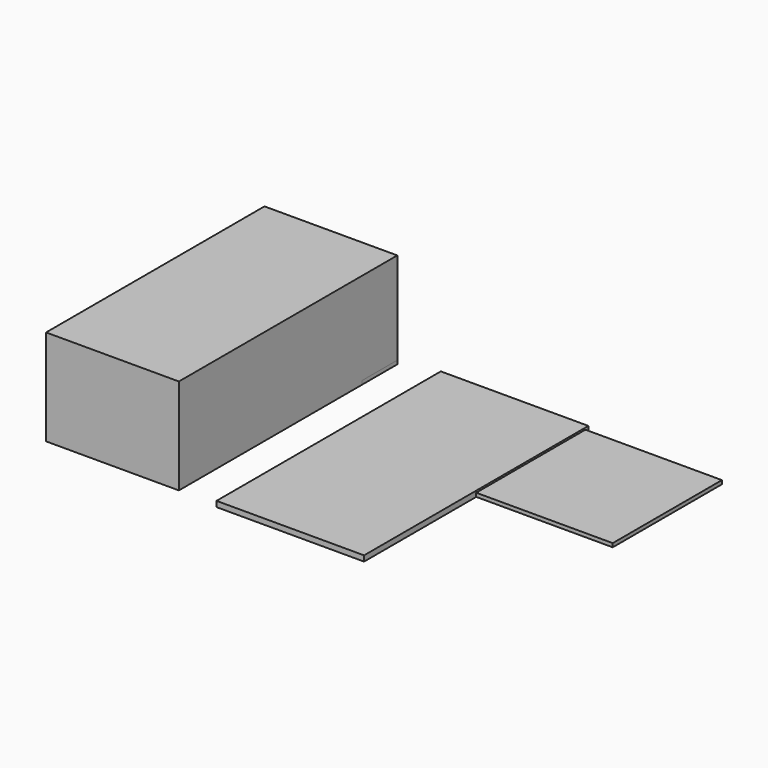
from build123d import *

# Parameters (mm, degrees)
F0_W     = 457.2
F0_H     = 939.8
F3_DEPTH = 330.2
F0_W_2   = 482.6
F4_DEPTH = 19.05
F1_W     = 660.4
F1_H     = 469.9
F1_W_2   = 76.2
F1_H_2   = 317.5
F1_H_3   = 279.4
F5_DEPTH = 12.7
F2_W     = 457.2
F2_H     = 152.4
F2_H_2   = 457.2
F6_DEPTH = 12.7


with BuildPart() as f3:
    # F0 (on Top) → F3 (new body)
    with BuildSketch(Plane.XY):
        with Locations((-381, -469.9)):
            Rectangle(F0_W, F0_H)
    extrude(amount=F3_DEPTH)


with BuildPart() as f4:
    # F0 (on Top) → F4 (new body)
    with BuildSketch(Plane.XY):
        Polygon((495.3, 12.7), (482.6, 0), (482.6, -939.8), (495.3, -952.5), align=None)
        Polygon((-12.7, 12.7), (0, 0), (482.6, 0), (495.3, 12.7), align=None)
        with Locations((241.3, -469.9)):
            Rectangle(F0_W_2, F0_H)
        Polygon((0, -939.8), (0, 0), (-12.7, 12.7), (-12.7, -952.5), align=None)
        Polygon((482.6, -939.8), (0, -939.8), (-12.7, -952.5), (495.3, -952.5), align=None)
    extrude(amount=F4_DEPTH)


with BuildPart() as f5:
    # F1 (on Top) → F5 (new body)
    with BuildSketch(Plane.XY):
        with Locations((635, -234.95)):
            Rectangle(F1_W, F1_H)
        with Locations((190.5, -158.75)):
            Rectangle(F1_W_2, F1_H_2)
        with Locations((38.1, -139.7)):
            Rectangle(F1_W_2, F1_H_3)
    extrude(amount=F5_DEPTH)


with BuildPart() as f6:
    # F2 (on Top) → F6 (new body)
    with BuildSketch(Plane.XY):
        with Locations((-381, -76.2)):
            Rectangle(F2_W, F2_H)
        with Locations((228.6, -228.6)):
            Rectangle(F2_W, F2_H_2)
    extrude(amount=F6_DEPTH)


solid = Compound([f3.part, f4.part, f5.part, f6.part])
